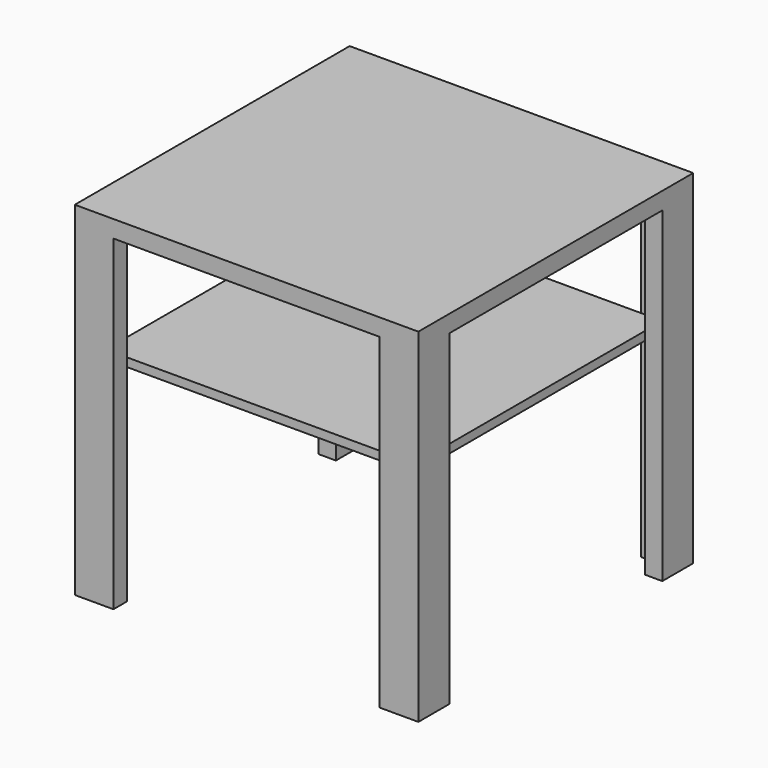
from build123d import *

# Parameters (mm, degrees)
F1_W     = 400
F1_H     = 400
F2_DEPTH = 20
F4_DEPTH = 380
F6_W     = 360
F6_H     = 360
F7_DEPTH = 10


with BuildPart() as f2:
    # F1 (on offset) → F2 (new body)
    with BuildSketch(Plane.XY.offset(400)):
        Rectangle(F1_W, F1_H)
    extrude(amount=-F2_DEPTH)

    # F3 (on face) → F4 (join, through all)
    with BuildSketch(Plane(origin=(0, 0, 380), x_dir=(1, 0, 0), z_dir=(0, 0, -1))):
        Polygon((-155, 200), (-200, 200), (-200, 155), (-180, 155), (-180, 180), (-155, 180), align=None)
        Polygon((155, 180), (180, 180), (180, 155), (200, 155), (200, 200), (155, 200), align=None)
        Polygon((200, -200), (200, -155), (180, -155), (180, -180), (155, -180), (155, -200), align=None)
        Polygon((-180, -180), (-180, -155), (-200, -155), (-200, -200), (-155, -200), (-155, -180), align=None)
    extrude(amount=F4_DEPTH)

    # F6 (on offset) → F7 (join)
    with BuildSketch(Plane.XY.offset(250)):
        Rectangle(F6_W, F6_H)
    extrude(amount=-F7_DEPTH)


solid = f2.part
